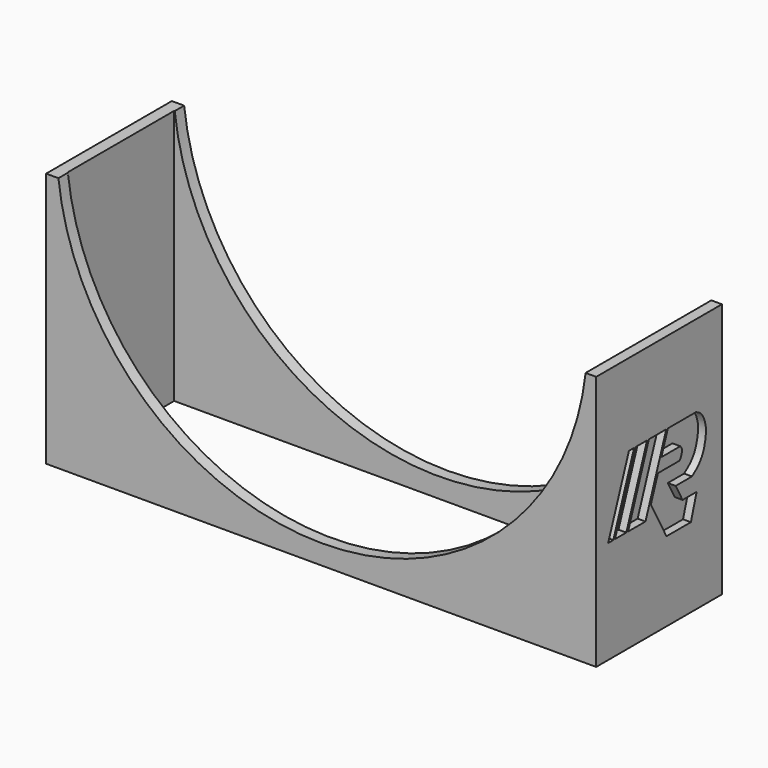
from build123d import *

# Parameters (mm, degrees)
F1_DEPTH = 50.8
F3_DEPTH = 2.54
F4_W     = 170.18
F4_H     = 43.18
F5_DEPTH = 82.5510001


with BuildPart() as f1:
    # F0 (on Front) → F1 (new body)
    with BuildSketch(Plane.XZ):
        with BuildLine():
            Line((-89.1799991712, 82.55), (-89.1799991712, 0))
            Line((-89.1799991712, 0), (88.6200008288, 0))
            Line((88.6200008288, 0), (88.6200008288, 82.55))
            Line((88.6200008288, 82.55), (85.1941899427, 82.55))
            ThreePointArc((85.1941899427, 82.55), (0, 6.35), (-85.1941899427, 82.55))
            Line((-85.1941899427, 82.55), (-89.1799991712, 82.55))
        make_face()
    extrude(amount=F1_DEPTH)

    # F2 (on face) → F3 (cut)
    with BuildSketch(Plane.YZ.offset(88.6200008288)):
        Polygon((-37.5634527076, 56.1206514695), (-45.9675195587, 33.2813703549), (-43.8684808629, 33.2813703549), (-35.4644140118, 56.1206514695), align=None)
        Polygon((-37.9258376017, 33.2813703549), (-30.8785599801, 33.2813703549), (-22.4744931291, 56.1206514695), (-29.5217707507, 56.1206514695), align=None)
        Polygon((-34.8114763209, 56.1206514695), (-43.215543172, 33.2813703549), (-38.6183339685, 33.2813703549), (-30.2142671174, 56.1206514695), align=None)
        with BuildLine():
            Line((-21.8350046216, 56.1206514695), (-24.458008221, 48.992255464))
            Line((-24.458008221, 48.992255464), (-16.8186221192, 48.992255464))
            add(Edge.make_bspline(
                [(-16.8186221192, 48.992255464), (-16.5650688194, 48.7058519581), (-16.0364420635, 48.1087366521), (-16.1460089371, 46.764492626), (-16.7359200401, 45.358777375), (-17.0941465697, 45.0955807852), (-17.2307778252, 44.9951949189)],
                knots=[0, 0, 0, 0, 0.2524611124, 0.5263496824, 0.8193449335, 1, 1, 1, 1], degree=3))
            Line((-17.2307778252, 44.9951949189), (-25.8454084249, 44.9951949189))
            Line((-25.8454084249, 44.9951949189), (-28.7053373028, 37.2229198086))
            Line((-28.7053373028, 37.2229198086), (-22.3991661055, 25.6406514695))
            Line((-22.3991661055, 25.6406514695), (-12.5383959732, 25.6406514695))
            Line((-12.5383959732, 25.6406514695), (-10.2086553273, 33.3342202489))
            Line((-10.2086553273, 33.3342202489), (-15.8975594249, 33.3342202489))
            Line((-15.8975594249, 33.3342202489), (-18.6933472439, 38.4691212412))
            Line((-18.6933472439, 38.4691212412), (-12.1049555279, 38.4691212412))
            add(Edge.make_bspline(
                [(-10.4178804995, 56.1206514695), (-9.8079992001, 55.81468124), (-8.5579503395, 55.1875465219), (-7.2723425667, 53.2835881675), (-6.2681571478, 50.1731018561), (-6.5962499881, 46.920709582), (-7.4565458058, 43.3248722799), (-9.4576902901, 40.390709487), (-11.2329073266, 39.1021207418), (-12.1049555279, 38.4691212412)],
                knots=[0, 0, 0, 0, 0.1175129286, 0.2408614638, 0.3885970952, 0.5383784175, 0.6968239202, 0.8510693906, 1, 1, 1, 1], degree=3))
            Line((-10.4178804995, 56.1206514695), (-21.8350046216, 56.1206514695))
        make_face()
    extrude(amount=-F3_DEPTH, mode=Mode.SUBTRACT)

    # F4 (on face) → F5 (cut, through all)
    with BuildSketch(Plane(origin=(0, 0, 0), x_dir=(1, 0, 0), z_dir=(0, 0, -1))):
        with Locations((-0.2799991712, 25.4)):
            Rectangle(F4_W, F4_H)
    extrude(amount=-F5_DEPTH, mode=Mode.SUBTRACT)


solid = f1.part
